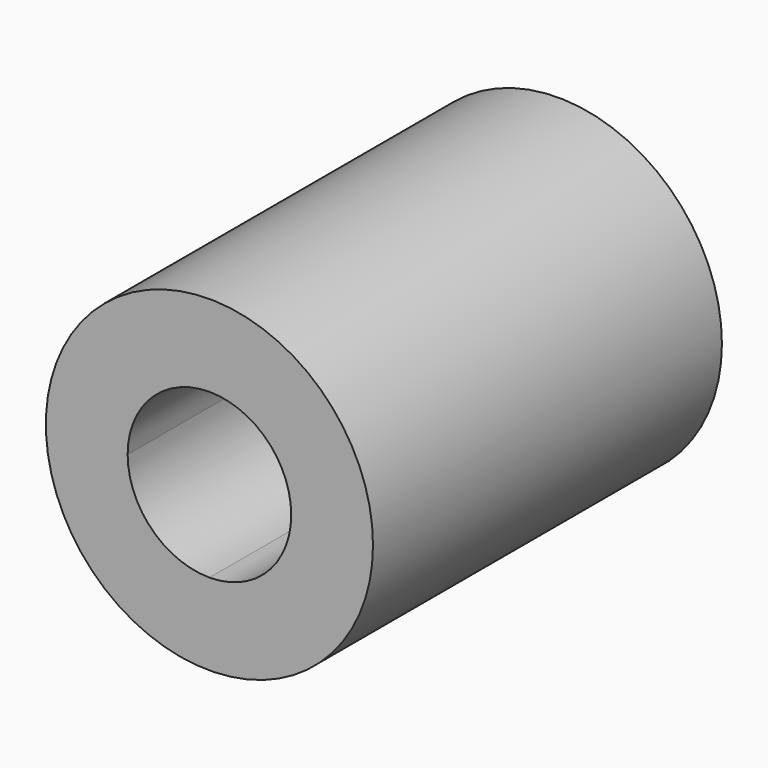
from build123d import *

# Parameters (mm, degrees)
F0_R     = 9.525
F1_DEPTH = 25.4
F3_DEPTH = 25.401
F4_DEPTH = 11.0998
F6_DEPTH = 9.525


with BuildPart() as f1:
    # F0 (on Front) → F1 (new body)
    with BuildSketch(Plane.XZ):
        Circle(F0_R)
    extrude(amount=F1_DEPTH)

    # F2 (on Front) → F3 (cut, through all)
    with BuildSketch(Plane.XZ):
        with BuildLine():
            ThreePointArc((-4.7625, 0), (-3.367596, -3.367596), (0, -4.7625))
            ThreePointArc((0, -4.7625), (3.367596, -3.367596), (4.7625, 0))
            ThreePointArc((4.7625, 0), (3.367596, 3.367596), (0, 4.7625))
            ThreePointArc((0, 4.7625), (-3.367596, 3.367596), (-4.7625, 0))
        make_face()
    extrude(amount=F3_DEPTH, mode=Mode.SUBTRACT)

    # F2 (on Front) → F4 (cut)
    with BuildSketch(Plane.XZ):
        with BuildLine():
            Line((0, -4.7625), (4.7625, -4.7625))
            Line((4.7625, -4.7625), (4.7625, 0))
            ThreePointArc((4.7625, 0), (3.367596, -3.367596), (0, -4.7625))
        make_face()
        with BuildLine():
            Line((-4.7625, -4.7625), (0, -4.7625))
            ThreePointArc((0, -4.7625), (-3.367596, -3.367596), (-4.7625, 0))
            Line((-4.7625, 0), (-4.7625, -4.7625))
        make_face()
        with BuildLine():
            ThreePointArc((0, 4.7625), (3.367596, 3.367596), (4.7625, 0))
            Line((4.7625, 0), (4.7625, 4.7625))
            Line((4.7625, 4.7625), (0, 4.7625))
        make_face()
        with BuildLine():
            Line((-4.7625, 4.7625), (-4.7625, 0))
            ThreePointArc((-4.7625, 0), (-3.367596, 3.367596), (0, 4.7625))
            Line((0, 4.7625), (-4.7625, 4.7625))
        make_face()
    extrude(amount=-F4_DEPTH, mode=Mode.SUBTRACT)

    # F5 (on face) → F6 (cut)
    with BuildSketch(Plane(origin=(0, 0, 0), x_dir=(-1, 0, 0), z_dir=(0, 1, 0))):
        Polygon((0.99988, -7.854919), (7.3025, -3.061538), (6.30262, 4.793382), (-0.99988, 7.854919), (-7.3025, 3.061538), (-6.30262, -4.793382), align=None)
    extrude(amount=-F6_DEPTH, mode=Mode.SUBTRACT)


solid = f1.part
